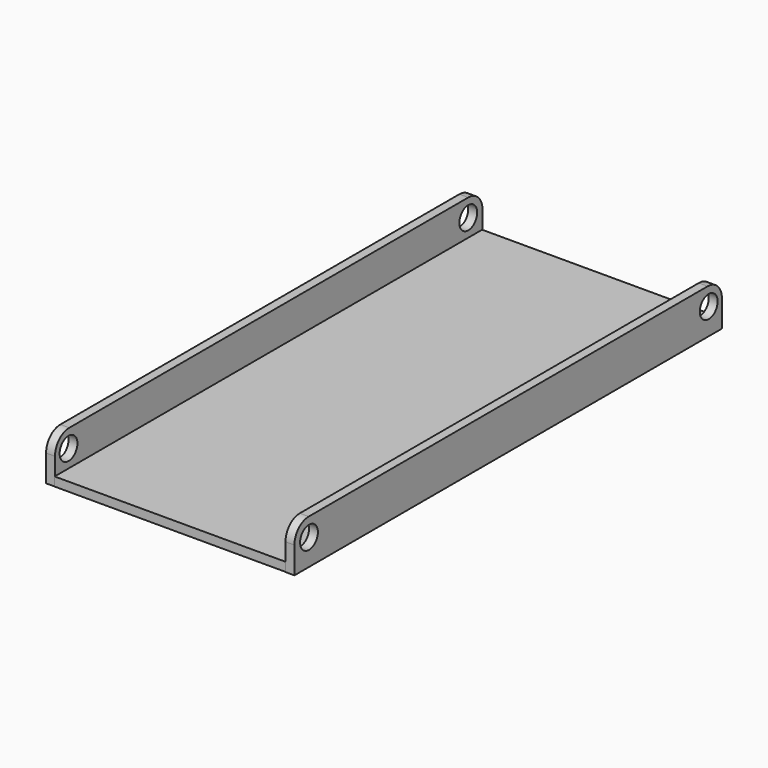
from build123d import *

# Parameters (mm, degrees)
F0_W     = 66.04
F0_H     = 152.4
F1_DEPTH = 2.54
F2_W     = 152.4
F2_H     = 12.7
F3_DEPTH = 2.54
F4_W     = 152.4
F4_H     = 12.7
F5_DEPTH = 2.54
F6_R     = 5.08
F7_R     = 3.175
F8_DEPTH = 90.17


with BuildPart() as f1:
    # F0 (on Top) → F1 (new body)
    with BuildSketch(Plane.XY):
        Rectangle(F0_W, F0_H)
    extrude(amount=F1_DEPTH)

    # F2 (on face) → F3 (join)
    with BuildSketch(Plane.YZ.offset(33.02)):
        with Locations((-0.243933, 6.454543)):
            Rectangle(F2_W, F2_H)
    extrude(amount=F3_DEPTH)

    # F4 (on face) → F5 (join)
    with BuildSketch(Plane(origin=(-33.02, 0, 0), x_dir=(0, -1, 0), z_dir=(-1, 0, 0))):
        with Locations((-0.127775, 6.291921)):
            Rectangle(F4_W, F4_H)
    extrude(amount=F5_DEPTH)

    # F6
    f6_edges = [f1.edges().sort_by_distance(p)[0] for p in [
        (34.29, -76.443933, 12.804543),
        (-34.29, -76.072225, 12.641921),
        (34.29, 75.956067, 12.804543),
        (-34.29, 76.327775, 12.641921),
    ]]
    fillet(f6_edges, radius=F6_R)

    # F7 (on face) → F8 (cut)
    with BuildSketch(Plane(origin=(-35.56, 0, 0), x_dir=(0, -1, 0), z_dir=(-1, 0, 0))):
        with Locations((-71.247775, 7.561921)):
            Circle(F7_R)
        with Locations((71.247775, 7.561921)):
            Circle(F7_R)
    extrude(amount=-F8_DEPTH, mode=Mode.SUBTRACT)


solid = f1.part
